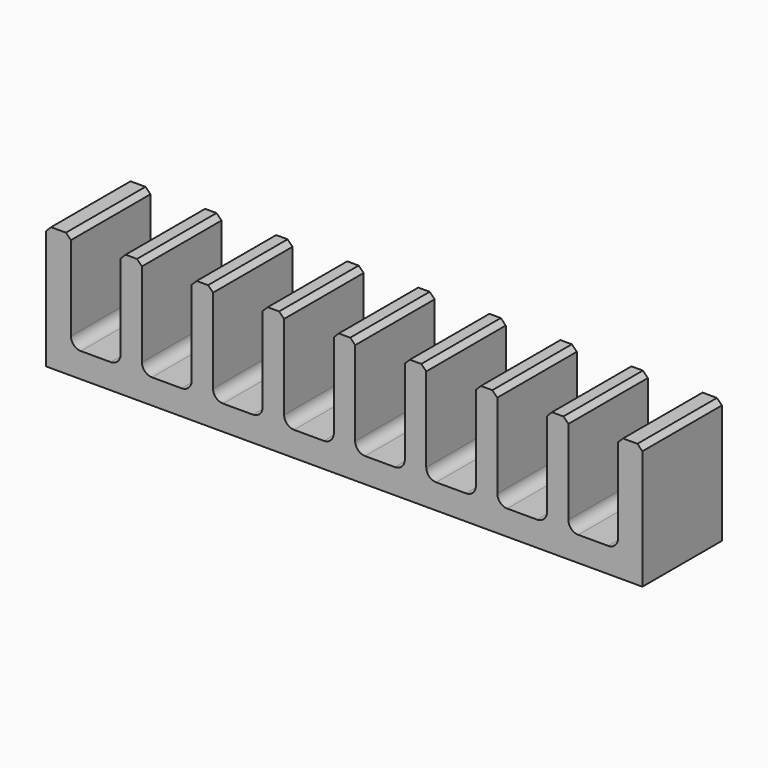
from build123d import *

# Parameters (mm, degrees)
F0_W     = 152.4
F0_H     = 25.4
F1_DEPTH = 31.75
F2_W     = 12.7
F2_H     = 25.4
F3_DEPTH = 25.401
F4_R     = 2.54
F5_SIZE  = 1.27


with BuildPart() as f1:
    # F0 (on Top) → F1 (new body)
    with BuildSketch(Plane.XY):
        Rectangle(F0_W, F0_H)
    extrude(amount=F1_DEPTH)

    # F2 (on face) → F3 (cut, through all)
    with BuildSketch(Plane.XZ.offset(12.7)):
        with Locations((-63.5, 19.05)):
            Rectangle(F2_W, F2_H)
        with Locations((-45.339, 19.05)):
            Rectangle(F2_W, F2_H)
        with Locations((-27.178, 19.05)):
            Rectangle(F2_W, F2_H)
        with Locations((-9.017, 19.05)):
            Rectangle(F2_W, F2_H)
        with Locations((9.144, 19.05)):
            Rectangle(F2_W, F2_H)
        with Locations((27.305, 19.05)):
            Rectangle(F2_W, F2_H)
        with Locations((45.466, 19.05)):
            Rectangle(F2_W, F2_H)
        with Locations((63.627, 19.05)):
            Rectangle(F2_W, F2_H)
    extrude(amount=-F3_DEPTH, mode=Mode.SUBTRACT)

    # F4
    f4_edges = [f1.edges().sort_by_distance(p)[0] for p in [
        (-69.85, 0, 6.35),
        (-57.15, 0, 6.35),
        (-38.989, 0, 6.35),
        (-20.828, 0, 6.35),
        (-2.667, 0, 6.35),
        (15.494, 0, 6.35),
        (33.655, 0, 6.35),
        (51.816, 0, 6.35),
        (69.977, 0, 6.35),
        (57.277, 0, 6.35),
        (39.116, 0, 6.35),
        (20.955, 0, 6.35),
        (2.794, 0, 6.35),
        (-15.367, 0, 6.35),
        (-33.528, 0, 6.35),
        (-51.689, 0, 6.35),
    ]]
    fillet(f4_edges, radius=F4_R)

    # F5
    f5_edges = [f1.edges().sort_by_distance(p)[0] for p in [
        (-69.85, 0, 31.75),
        (-76.2, 0, 31.75),
        (-57.15, 0, 31.75),
        (-51.689, 0, 31.75),
        (-38.989, 0, 31.75),
        (-33.528, 0, 31.75),
        (-20.828, 0, 31.75),
        (-15.367, 0, 31.75),
        (-2.667, 0, 31.75),
        (2.794, 0, 31.75),
        (15.494, 0, 31.75),
        (20.955, 0, 31.75),
        (33.655, 0, 31.75),
        (39.116, 0, 31.75),
        (51.816, 0, 31.75),
        (57.277, 0, 31.75),
        (69.977, 0, 31.75),
        (76.2, 0, 31.75),
    ]]
    chamfer(f5_edges, length=F5_SIZE)


solid = f1.part
